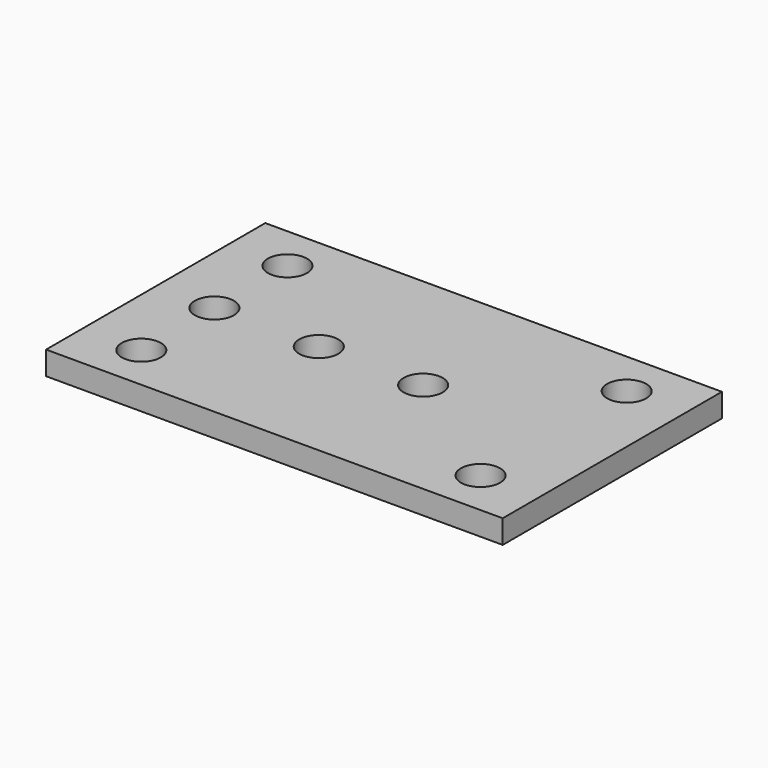
from build123d import *

# Parameters (mm, degrees)
F0_W     = 35
F0_H     = 21
F0_R     = 1.5
F1_DEPTH = 1.8


with BuildPart() as f1:
    # F0 (on Top) → F1 (new body)
    with BuildSketch(Plane.XY):
        with Locations((7.644186, 1.425408)):
            Rectangle(F0_W, F0_H)
        with Locations((-5.355814, -5.574592)):
            Circle(F0_R, mode=Mode.SUBTRACT)
        with Locations((20.644186, -5.574592)):
            Circle(F0_R, mode=Mode.SUBTRACT)
        with Locations((-5.355814, 1.425408)):
            Circle(F0_R, mode=Mode.SUBTRACT)
        with Locations((2.644186, 1.425408)):
            Circle(F0_R, mode=Mode.SUBTRACT)
        with Locations((-5.355814, 8.425408)):
            Circle(F0_R, mode=Mode.SUBTRACT)
        with Locations((10.644186, 1.425408)):
            Circle(F0_R, mode=Mode.SUBTRACT)
        with Locations((20.644186, 8.425408)):
            Circle(F0_R, mode=Mode.SUBTRACT)
    extrude(amount=F1_DEPTH)


solid = f1.part
